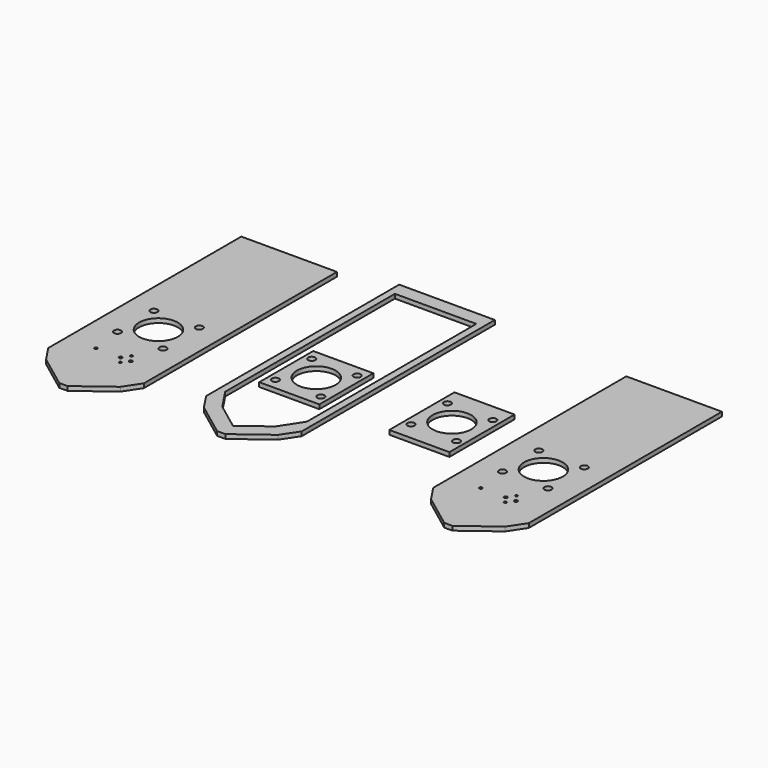
from build123d import *

# Parameters (mm, degrees)
F0_R     = 2
F0_R_2   = 5
F0_R_3   = 27.25
F0_R_4   = 1.75
F0_R_5   = 2.25
F2_DEPTH = 6
F1_W     = 84.67002
F1_H     = 95
F1_R     = 5
F1_R_2   = 27.25
F3_DEPTH = 6
F4_W     = 84.67002
F4_H     = 114.67002
F4_R     = 5
F4_R_2   = 27.25
F5_DEPTH = 6
F6_R     = 2
F6_R_2   = 5
F6_R_3   = 27.25
F6_R_4   = 1.75
F6_R_5   = 2.25
F7_DEPTH = 6


with BuildPart() as f2:
    # F0 (on Top) + F1 (on Top) → F2 (new body)
    with BuildSketch(Plane.XY):
        Polygon((-177.776273, 182.984072), (-312.44629, 182.98407), (-312.44629, -156.848202), (-297.332648, -179.518665), (-250.889618, -214.350937), (-239.332945, -214.350937), (-192.889915, -179.518665), (-177.776273, -156.848202), align=None)
        with Locations((-271.211281, -124.590939)):
            Circle(F0_R, mode=Mode.SUBTRACT)
        with Locations((-277.111281, -79.015929)):
            Circle(F0_R_2, mode=Mode.SUBTRACT)
        with Locations((-245.111281, -47.015929)):
            Circle(F0_R_3, mode=Mode.SUBTRACT)
        with Locations((-229.111281, -134.090939)):
            Circle(F0_R_4, mode=Mode.SUBTRACT)
        with Locations((-236.211281, -124.590939)):
            Circle(F0_R_5, mode=Mode.SUBTRACT)
        with Locations((-221.911281, -124.590939)):
            Circle(F0_R_5, mode=Mode.SUBTRACT)
        with Locations((-229.111281, -114.350939)):
            Circle(F0_R_4, mode=Mode.SUBTRACT)
        with Locations((-213.111281, -79.015929)):
            Circle(F0_R_2, mode=Mode.SUBTRACT)
        with Locations((-277.111281, -15.015929)):
            Circle(F0_R_2, mode=Mode.SUBTRACT)
        with Locations((-213.111281, -15.015929)):
            Circle(F0_R_2, mode=Mode.SUBTRACT)
    with BuildSketch(Plane.XY):
        Polygon((29.210014, 202.067265), (-105.460002, 202.067265), (-105.460002, -137.765007), (-90.34636, -160.435471), (-43.90333, -195.267743), (-32.346658, -195.267743), (14.096372, -160.435471), (29.210014, -137.765007), align=None)
        Polygon((-95.460002, -116.709495), (-95.460002, 182.067265), (19.210014, 182.067265), (19.210014, -116.052698), (-0.644312, -146.490983), (-38.124994, -174.601495), (-75.605677, -146.490983), align=None, mode=Mode.SUBTRACT)
    extrude(amount=F2_DEPTH)


with BuildPart() as f3:
    # F1 (on Top) → F3 (new body)
    with BuildSketch(Plane.XY):
        with Locations((-38.124992, -27.932735)):
            Rectangle(F1_W, F1_H)
        with Locations((-70.124992, -59.932735)):
            Circle(F1_R, mode=Mode.SUBTRACT)
        with Locations((-6.124992, -59.932735)):
            Circle(F1_R, mode=Mode.SUBTRACT)
        with Locations((-38.124992, -27.932735)):
            Circle(F1_R_2, mode=Mode.SUBTRACT)
        with Locations((-70.124992, 4.067265)):
            Circle(F1_R, mode=Mode.SUBTRACT)
        with Locations((-6.124992, 4.067265)):
            Circle(F1_R, mode=Mode.SUBTRACT)
    extrude(amount=F3_DEPTH)


with BuildPart() as f5:
    # F4 (on Top) → F5 (new body)
    with BuildSketch(Plane.XY):
        with Locations((144.531332, -17.576933)):
            Rectangle(F4_W, F4_H)
        with Locations((112.531332, -49.576933)):
            Circle(F4_R, mode=Mode.SUBTRACT)
        with Locations((176.531332, -49.576933)):
            Circle(F4_R, mode=Mode.SUBTRACT)
        with Locations((144.531332, -17.576933)):
            Circle(F4_R_2, mode=Mode.SUBTRACT)
        with Locations((112.531332, 14.423067)):
            Circle(F4_R, mode=Mode.SUBTRACT)
        with Locations((176.531332, 14.423067)):
            Circle(F4_R, mode=Mode.SUBTRACT)
    extrude(amount=F5_DEPTH)


with BuildPart() as f7:
    # F6 (on Top) → F7 (new body)
    with BuildSketch(Plane.XY):
        Polygon((360.67594, 187.475217), (226.005923, 187.475215), (226.005923, -152.357056), (241.119565, -175.02752), (287.562595, -209.859792), (299.119268, -209.859792), (345.562298, -175.027519), (360.67594, -152.357056), align=None)
        with Locations((267.240931, -120.099794)):
            Circle(F6_R, mode=Mode.SUBTRACT)
        with Locations((261.340931, -74.524784)):
            Circle(F6_R_2, mode=Mode.SUBTRACT)
        with Locations((293.340931, -42.524784)):
            Circle(F6_R_3, mode=Mode.SUBTRACT)
        with Locations((309.340931, -129.599794)):
            Circle(F6_R_4, mode=Mode.SUBTRACT)
        with Locations((302.240931, -120.099794)):
            Circle(F6_R_5, mode=Mode.SUBTRACT)
        with Locations((316.540931, -120.099794)):
            Circle(F6_R_5, mode=Mode.SUBTRACT)
        with Locations((309.340931, -109.859794)):
            Circle(F6_R_4, mode=Mode.SUBTRACT)
        with Locations((325.340931, -74.524784)):
            Circle(F6_R_2, mode=Mode.SUBTRACT)
        with Locations((261.340931, -10.524784)):
            Circle(F6_R_2, mode=Mode.SUBTRACT)
        with Locations((325.340931, -10.524784)):
            Circle(F6_R_2, mode=Mode.SUBTRACT)
    extrude(amount=F7_DEPTH)


solid = Compound([f2.part, f3.part, f5.part, f7.part])
